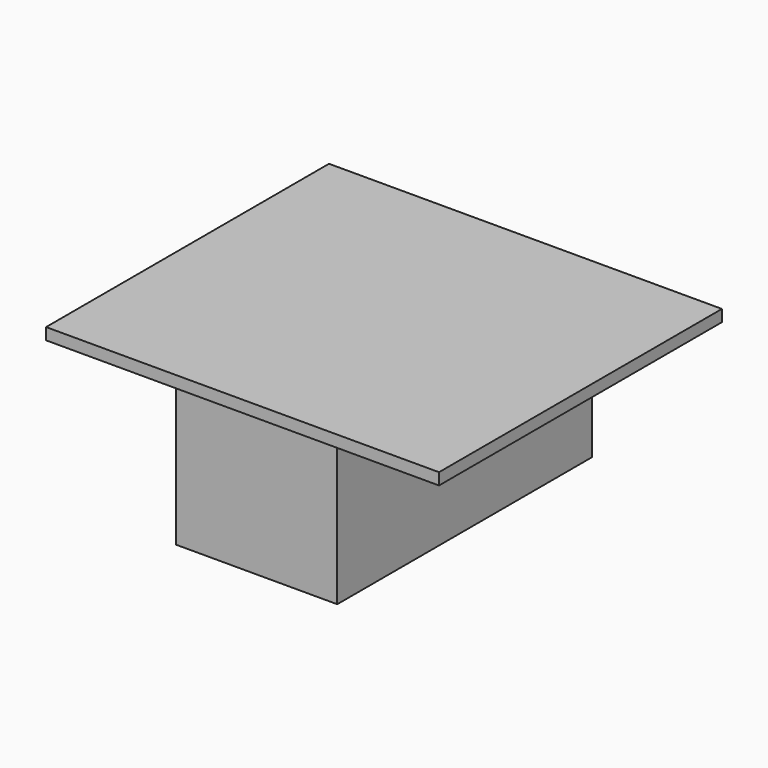
from build123d import *

# Parameters (mm, degrees)
F0_W     = 50.8
F0_H     = 45.72
F1_DEPTH = 1.512496
F2_W     = 20.828
F2_H     = 41.148
F2_W_2   = 17.597928
F2_H_2   = 37.93566
F3_DEPTH = 19.319184


with BuildPart() as f1:
    # F0 (on Top) → F1 (new body)
    with BuildSketch(Plane.XY):
        Rectangle(F0_W, F0_H)
    extrude(amount=-F1_DEPTH)

    # F2 (on face) → F3 (join)
    with BuildSketch(Plane(origin=(0, 0, -1.512496), x_dir=(1, 0, 0), z_dir=(0, 0, -1))):
        Rectangle(F2_W, F2_H)
        Rectangle(F2_W_2, F2_H_2, mode=Mode.SUBTRACT)
    extrude(amount=F3_DEPTH)


solid = f1.part
